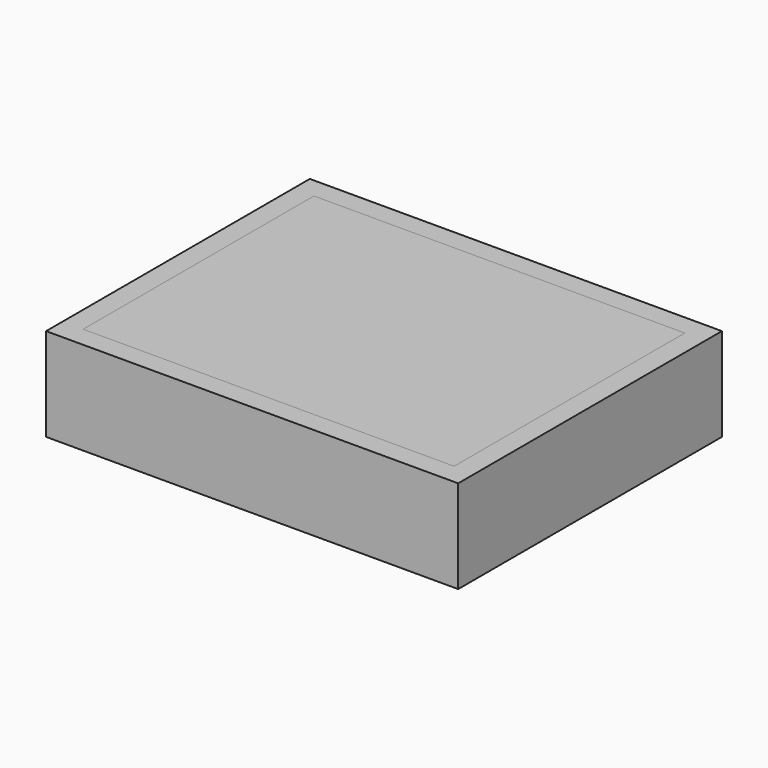
from build123d import *

# Parameters (mm, degrees)
F0_W     = 63.5
F0_H     = 50.8
F0_W_2   = 57.15
F0_H_2   = 44.45
F1_DEPTH = 14.35
F2_DEPTH = 3.175
F3_W     = 57.15
F3_H     = 44.45
F4_DEPTH = 3.175


with BuildPart() as f1:
    # F0 (on Top) → F1 (new body)
    with BuildSketch(Plane.XY):
        with Locations((28.575, 22.225)):
            Rectangle(F0_W, F0_H)
        with Locations((28.575, 22.225)):
            Rectangle(F0_W_2, F0_H_2, mode=Mode.SUBTRACT)
    extrude(amount=F1_DEPTH)


with BuildPart() as f2:
    # F0 (on Top) → F2 (new body)
    with BuildSketch(Plane.XY):
        with Locations((28.575, 22.225)):
            Rectangle(F0_W_2, F0_H_2)
    extrude(amount=F2_DEPTH)


with BuildPart() as f4:
    # F3 (on face) → F4 (new body)
    with BuildSketch(Plane.XY.offset(14.35)):
        with Locations((28.575, 22.225)):
            Rectangle(F3_W, F3_H)
    extrude(amount=-F4_DEPTH)


solid = Compound([f1.part, f2.part, f4.part])
